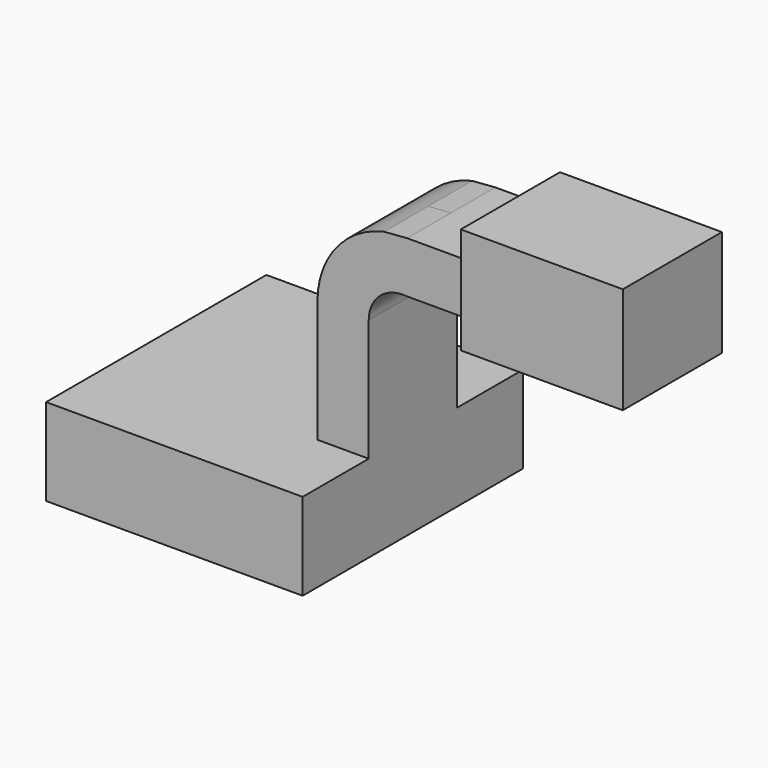
from build123d import *

# Parameters (mm, degrees)
F1_DEPTH = 63.5
F2_DEPTH = 25.4
F0_W     = 37.3578295112
F0_H     = 13.7197794846
F0_H_2   = 23.6380351254
F0_H_3   = 11.7702707648
F3_DEPTH = 28.575


with BuildPart() as f1:
    # F0 (on Front) → F1 (new body, symmetric)
    with BuildSketch(Plane.XZ):
        Polygon((35.526488953, 20.0833715498), (-59.1645240784, 20.0833715498), (-59.1645240784, -20.0833715498), (59.1645240784, -20.0833715498), (59.1645240784, 20.0833715498), align=None)
    extrude(amount=F1_DEPTH, both=True)

    # F0 (on Front) → F2 (join, symmetric)
    with BuildSketch(Plane.XZ):
        with BuildLine():
            Line((35.526488953, 76.3945057988), (35.526488953, 20.0833715498))
            Line((35.526488953, 20.0833715498), (59.1645240784, 20.0833715498))
            Line((59.1645240784, 20.0833715498), (59.1645240784, 76.3945057988))
            ThreePointArc((59.1645240784, 76.3945057988), (64.2012826279, 87.7945426192), (76.0210826993, 91.7470231652))
            Line((76.0210826993, 91.7470231652), (104.1673794389, 91.7470231652))
            Line((104.1673794389, 91.7470231652), (104.1673794389, 115.3850582906))
            Line((104.1673794389, 115.3850582906), (76.8725928536, 115.3850582906))
            add(Edge.make_bspline(
                [(66.1712992482, 114.5353537972), (69.7326775282, 114.9157218144), (73.3029348697, 115.1988448631), (76.8725928536, 115.3850582906)],
                knots=[156.3347304478, 156.3347304478, 156.3347304478, 156.3347304478, 166.0978888451, 166.0978888451, 166.0978888451, 166.0978888451], degree=3))
            ThreePointArc((66.1712992482, 114.5353537972), (44.1367599152, 100.8578900908), (35.526488953, 76.3945057988))
        make_face()
    extrude(amount=F2_DEPTH, both=True)

    # F0 (on Front) → F3 (join, symmetric)
    with BuildSketch(Plane.XZ):
        with Locations((122.8462941945, 122.2449480329)):
            Rectangle(F0_W, F0_H)
        with Locations((122.8462941945, 103.5660407279)):
            Rectangle(F0_W, F0_H_2)
        with Locations((122.8462941945, 85.8618877828)):
            Rectangle(F0_W, F0_H_3)
        Polygon((141.52520895, 129.1048377752), (141.52520895, 115.3850582906), (141.52520895, 91.7470231652), (141.52520895, 79.9767524004), (178.8830384612, 79.9767524004), (178.8830384612, 129.1048377752), align=None)
    extrude(amount=F3_DEPTH, both=True)


solid = f1.part
